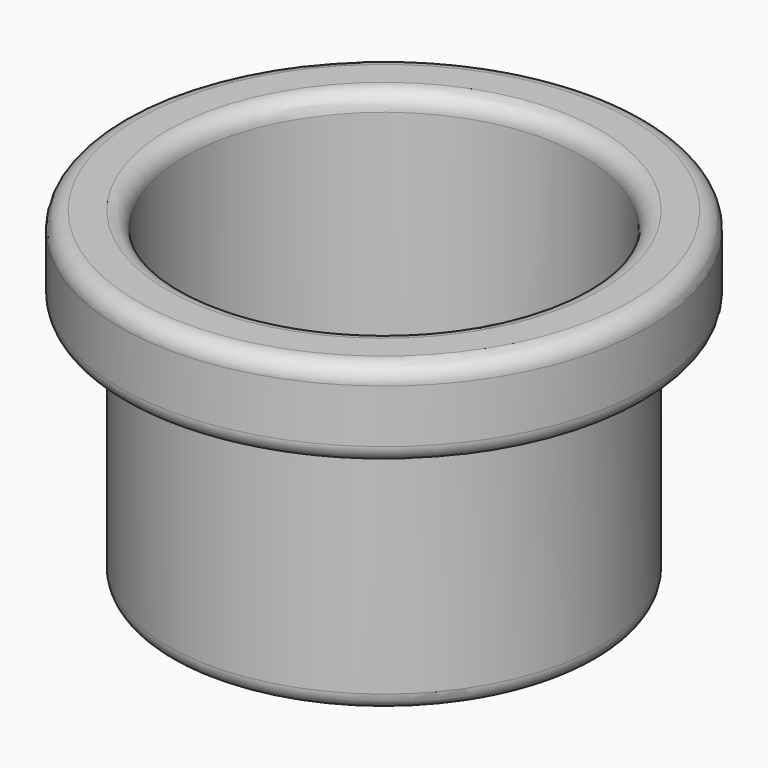
from build123d import *

# Parameters (mm, degrees)
F0_W     = 62.5
F0_H     = 70
F1_R     = 57.5
F3_DEPTH = 73.910910777
F4_R     = 30
F5_DEPTH = 21.490089223
F6_R     = 5


with BuildPart() as f2:
    # F0 (on Front) → F2 (revolve)
    with BuildSketch(Plane.XZ):
        with Locations((-31.25, 13.510910777)):
            Rectangle(F0_W, F0_H)
        Polygon((-62.5, 48.510910777), (0, 48.510910777), (0, 73.910910777), (-76.2, 73.910910777), (-76.2, 48.510910777), align=None)
    revolve(axis=Axis((0, 0, 61.210910777), (0, 0, -1)))

    # F1 (on Top) → F3 (cut, through all)
    with BuildSketch(Plane.XY):
        Circle(F1_R)
    extrude(amount=F3_DEPTH, mode=Mode.SUBTRACT)

    # F4 (on Top) → F5 (cut, through all)
    with BuildSketch(Plane.XY):
        Circle(F4_R)
    extrude(amount=-F5_DEPTH, mode=Mode.SUBTRACT)

    # F6
    f6_edges = [f2.edges().sort_by_distance(p)[0] for p in [
        (-57.5, 0, 73.910911),
        (76.2, 0, 73.910911),
        (76.2, 0, 48.510911),
        (62.5, 0, -21.489089),
        (-30, 0, 0),
        (-57.5, 0, 0),
    ]]
    fillet(f6_edges, radius=F6_R)


solid = f2.part
